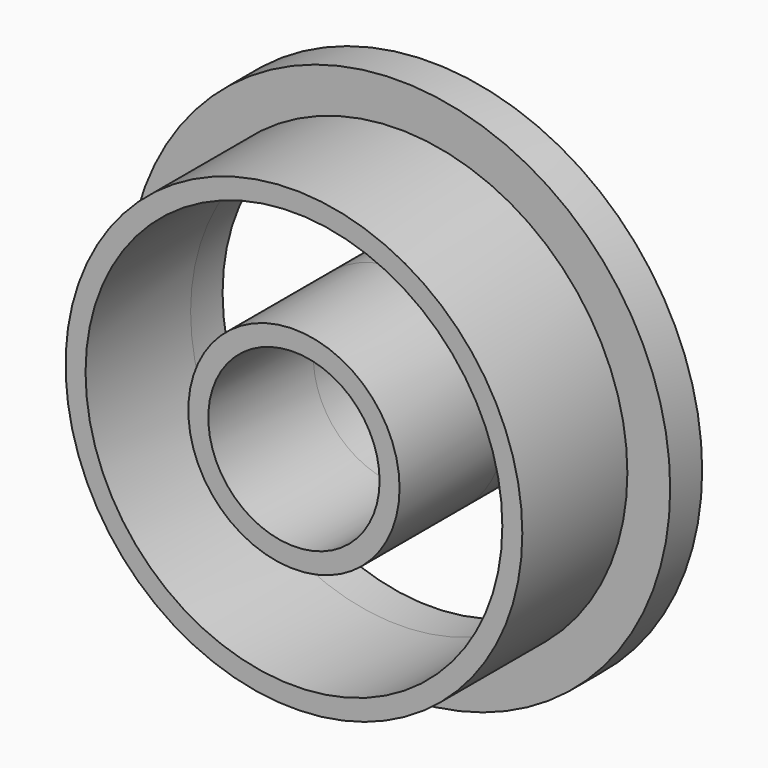
from build123d import *

# Parameters (mm, degrees)
F0_R     = 4
F0_R_2   = 3.65
F0_R_3   = 1.85
F0_R_4   = 1.5
F1_DEPTH = 2.3
F0_R_5   = 4.75
F2_DEPTH = 0.7


with BuildPart() as f1:
    # F0 (on Front) → F1 (new body)
    with BuildSketch(Plane.XZ):
        Circle(F0_R)
        Circle(F0_R_2, mode=Mode.SUBTRACT)
        Circle(F0_R_3)
        Circle(F0_R_4, mode=Mode.SUBTRACT)
    extrude(amount=F1_DEPTH)


with BuildPart() as f2:
    # F0 (on Front) → F2 (new body)
    with BuildSketch(Plane.XZ):
        Circle(F0_R_5)
        Circle(F0_R, mode=Mode.SUBTRACT)
        Circle(F0_R)
        Circle(F0_R_2, mode=Mode.SUBTRACT)
        Circle(F0_R_3)
        Circle(F0_R_4, mode=Mode.SUBTRACT)
    extrude(amount=-F2_DEPTH)


solid = Compound([f1.part, f2.part])
